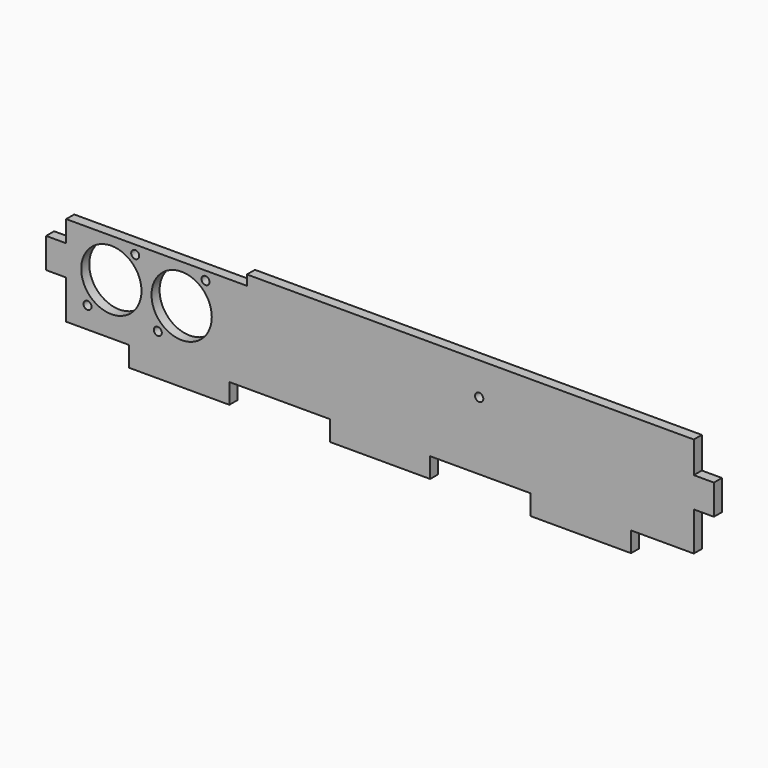
from build123d import *

# Parameters (mm, degrees)
SKETCH006_W     = 266
SKETCH006_H     = 48
PAD003_DEPTH    = 4
SKETCH024_W     = 40
SKETCH024_H     = 30
SKETCH024_W_2   = 30
SKETCH024_H_2   = 20
POCKET007_DEPTH = 4.001
SKETCH031_R     = 12
SKETCH031_R_2   = 1.6
POCKET014_DEPTH = 4.001
SKETCH040_R     = 1.65
HOLE005_DEPTH   = 4.001
SKETCH055_W     = 76
SKETCH055_H     = 10
POCKET021_DEPTH = 4.001


with BuildPart() as part:
    # Sketch006 (on DatumPlane) → Pad003 (new body)
    with BuildSketch(Plane.XZ.offset(-79)):
        with Locations((0, 16)):
            Rectangle(SKETCH006_W, SKETCH006_H)
    extrude(amount=PAD003_DEPTH)

    # Sketch024 (on Face5 of Pad003) → Pocket007 (cut, through all)
    with BuildSketch(Plane(origin=(0, 79, 0), x_dir=(1, 0, 0), z_dir=(0, 1, 0))):
        Polygon((-145, 30), (-100, 30), (-100, 0), (-125, 0), (-125, -15.5), (-155, -15.5), (-155, 4.5), (-145, 4.5), align=None)
        with Locations((-40, 15)):
            Rectangle(SKETCH024_W, SKETCH024_H)
        with Locations((40, 15)):
            Rectangle(SKETCH024_W, SKETCH024_H)
        Polygon((100, 30), (145, 30), (145, 4.5), (155, 4.5), (155, -15.5), (125, -15.5), (125, 0), (100, 0), align=None)
        with Locations((-140, -37.5)):
            Rectangle(SKETCH024_W_2, SKETCH024_H_2)
        with Locations((140, -37.5)):
            Rectangle(SKETCH024_W_2, SKETCH024_H_2)
    extrude(amount=-POCKET007_DEPTH, mode=Mode.SUBTRACT)

    # Sketch031 (on Face2 of Pocket007) → Pocket014 (cut, through all)
    with BuildSketch(Plane(origin=(0, 79, 0), x_dir=(1, 0, 0), z_dir=(0, 1, 0))):
        with Locations((-107, -20.5)):
            Circle(SKETCH031_R)
        with Locations((-116.5, -8.5)):
            Circle(SKETCH031_R_2)
        with Locations((-97.5, -32.5)):
            Circle(SKETCH031_R_2)
        with Locations((-88.5, -8.5)):
            Circle(SKETCH031_R_2)
        with Locations((-79, -20.5)):
            Circle(SKETCH031_R)
        with Locations((-69.5, -32.5)):
            Circle(SKETCH031_R_2)
    extrude(amount=-POCKET014_DEPTH, mode=Mode.SUBTRACT)

    # Sketch040 (on Face2 of Pocket014) → Hole005 (cut, through all)
    with BuildSketch(Plane(origin=(0, 79, 0), x_dir=(1, 0, 0), z_dir=(0, 1, 0))):
        with Locations((39.5, -27)):
            Circle(SKETCH040_R)
    extrude(amount=-HOLE005_DEPTH, mode=Mode.SUBTRACT)

    # Sketch055 (on Face2 of Pocket007) → Pocket021 (cut, through all)
    with BuildSketch(Plane(origin=(0, 79, 0), x_dir=(1, 0, 0), z_dir=(0, 1, 0))):
        with Locations((-91, -41)):
            Rectangle(SKETCH055_W, SKETCH055_H)
    extrude(amount=-POCKET021_DEPTH, mode=Mode.SUBTRACT)


solid = part.part
